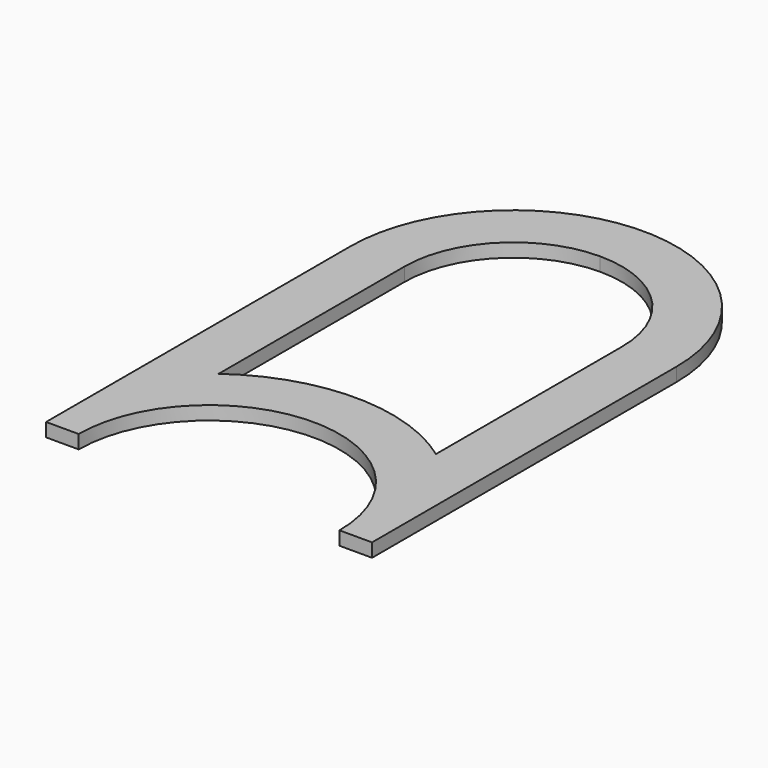
from build123d import *

# Parameters (mm, degrees)
F1_DEPTH = 25


with BuildPart() as f1:
    # F0 (on Top) → F1 (new body)
    with BuildSketch(Plane.XY):
        with BuildLine():
            Line((-255.484788, 651.733869), (-255.484788, -48.266131))
            Line((-255.484788, -48.266131), (-195.484788, -48.266131))
            ThreePointArc((-195.484788, -48.266131), (44.515212, 191.733869), (284.515212, -48.266131))
            Line((284.515212, -48.266131), (344.515212, -48.266131))
            Line((344.515212, -48.266131), (344.515212, 441.456646))
            Line((344.515212, 441.456646), (344.515212, 651.733869))
            ThreePointArc((344.515212, 651.733869), (44.515212, 951.733869), (-255.484788, 651.733869))
        make_face()
        with BuildLine():
            Line((-155.484788, 223.761452), (-155.484788, 651.733869))
            ThreePointArc((-155.484788, 651.733869), (-96.906144, 793.155225), (44.515212, 851.733869))
            ThreePointArc((44.515212, 851.733869), (185.936568, 793.155225), (244.515212, 651.733869))
            Line((244.515212, 651.733869), (244.515212, 223.761452))
            ThreePointArc((244.515212, 223.761452), (44.515212, 288.806911), (-155.484788, 223.761452))
        make_face(mode=Mode.SUBTRACT)
    extrude(amount=F1_DEPTH)


solid = f1.part
